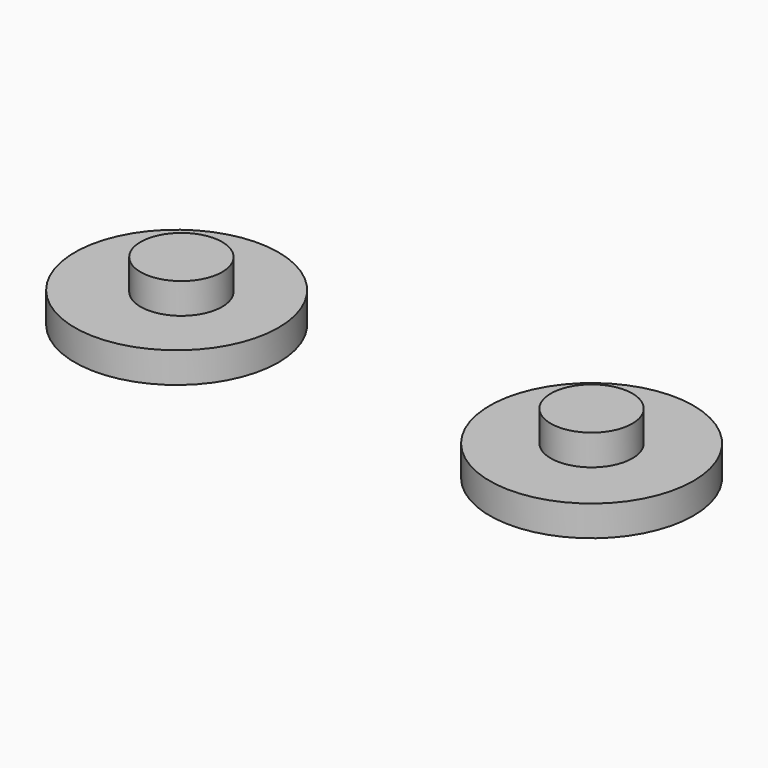
from build123d import *

# Parameters (mm, degrees)
F0_R     = 10
F2_DEPTH = 3
F1_R     = 4
F3_DEPTH = 6


with BuildPart() as f2:
    # F0 (on Top) → F2 (new body)
    with BuildSketch(Plane.XY):
        with Locations((25.003126, 0)):
            Circle(F0_R)
        with Locations((-15.699636, 0)):
            Circle(F0_R)
    extrude(amount=F2_DEPTH)


with BuildPart() as f3:
    # F1 (on Top) → F3 (new body)
    with BuildSketch(Plane.XY):
        with Locations((25.003126, 0)):
            Circle(F1_R)
        with Locations((-15.234462, 0)):
            Circle(F1_R)
    extrude(amount=F3_DEPTH)


solid = Compound([f2.part, f3.part])
